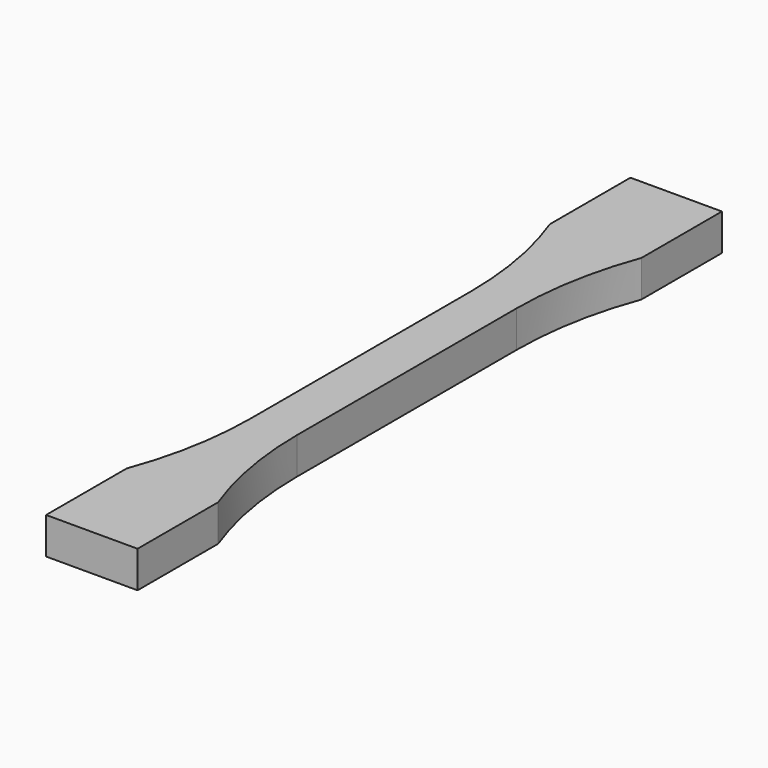
from build123d import *

# Parameters (mm, degrees)
F1_DEPTH = 4


with BuildPart() as f1:
    # F0 (on Top) → F1 (new body)
    with BuildSketch(Plane.XY):
        with BuildLine():
            Line((-2.5, 15), (-2.5, 0))
            Line((-2.5, 0), (0, 0))
            Line((0, 0), (0, 39.919411))
            Line((0, 39.919411), (-5, 39.919411))
            Line((-5, 39.919411), (-5, 28.919411))
            ThreePointArc((-5, 28.919411), (-3.129961, 22.071068), (-2.5, 15))
        make_face()
    extrude(amount=F1_DEPTH)

    # F2: F1 across face


with BuildPart() as f1_1:
    add(f1.part)
    add(f1.part.mirror(Plane(origin=(0, 19.959705, 2), x_dir=(0, 1, 0), z_dir=(1, 0, 0))))

    # F3: F1 across face


with BuildPart() as f1_2:
    add(f1_1.part)
    add(f1_1.part.mirror(Plane(origin=(0, 0, 2), x_dir=(1, 0, 0), z_dir=(0, -1, 0))))


solid = f1_2.part
